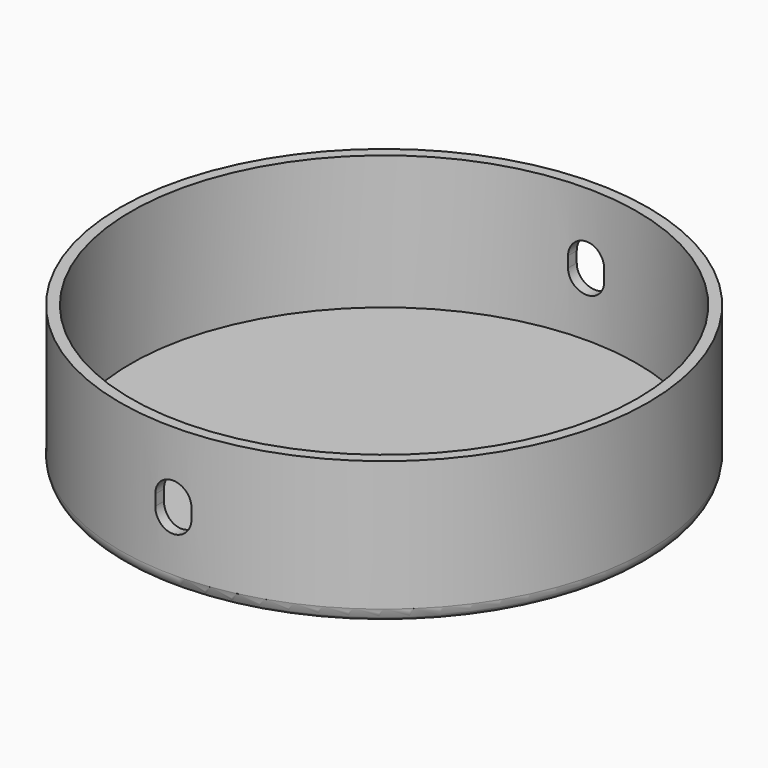
from build123d import *

# Parameters (mm, degrees)
F0_R     = 36.5
F1_DEPTH = 20
F2_T     = -1.5
F3_R     = 2
F5_DEPTH = 50


with BuildPart() as f1:
    # F0 (on Top) → F1 (new body)
    with BuildSketch(Plane.XY):
        Circle(F0_R)
    extrude(amount=F1_DEPTH)

    # F2
    f2_openings = [f1.faces().sort_by_distance(p)[0] for p in [
        (0, 0, 20),
    ]]
    offset(amount=F2_T, openings=f2_openings)

    # F3
    f3_edges = [f1.edges().sort_by_distance(p)[0] for p in [
        (-36.5, 0, 0),
    ]]
    fillet(f3_edges, radius=F3_R)

    # F4 (on Front) → F5 (cut, symmetric)
    with BuildSketch(Plane.XZ):
        with BuildLine():
            Line((-2.5, 11), (-2.5, 9.5))
            ThreePointArc((-2.5, 9.5), (0, 7), (2.5, 9.5))
            Line((2.5, 9.5), (2.5, 11))
            ThreePointArc((2.5, 11), (0, 13.5), (-2.5, 11))
        make_face()
    extrude(amount=F5_DEPTH, both=True, mode=Mode.SUBTRACT)


solid = f1.part
